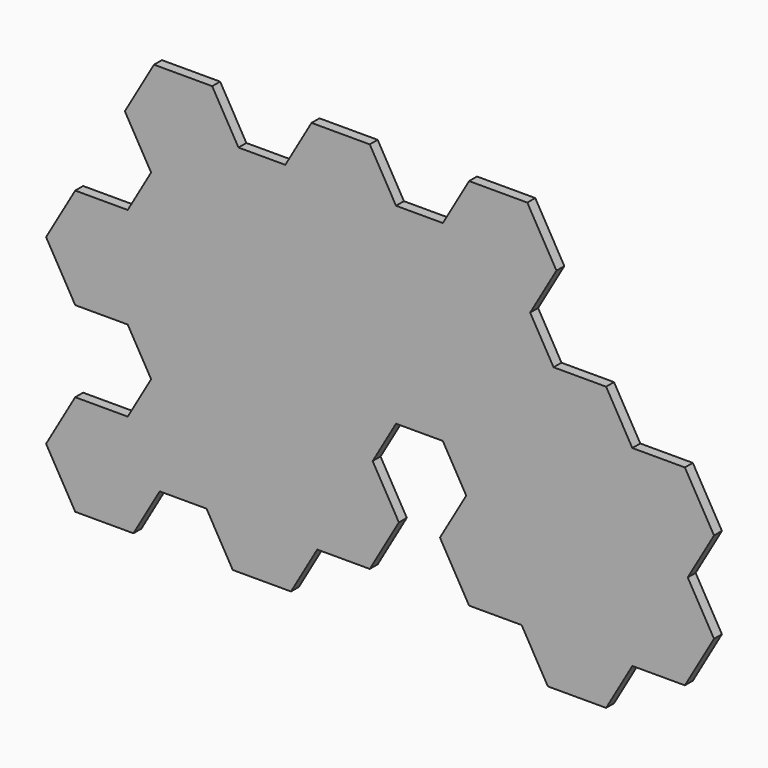
from build123d import *

# Parameters (mm, degrees)
F1_DEPTH = 6.35


with BuildPart() as f1:
    # F0 (on Front) → F1 (new body)
    with BuildSketch(Plane.XZ):
        Polygon((-140.814617, -143.280209), (-123.98153, -114.124446), (-90.315356, -114.124446), (-71.649181, -81.793684), (-88.482268, -52.637922), (-73.482268, -26.65716), (-43.482268, -26.65716), (-28.482268, -52.637922), (-45.315356, -81.793684), (-26.649181, -114.124446), (7.016993, -114.124446), (23.85008, -143.280209), (61.182428, -143.280209), (78.015515, -114.124446), (111.68169, -114.124446), (130.347864, -81.793684), (113.514777, -52.637922), (130.347864, -23.48216), (111.68169, 8.848602), (78.015515, 8.848602), (61.182428, 38.004364), (27.516254, 38.004364), (12.516254, 63.985126), (29.349341, 93.140888), (10.683167, 125.471651), (-26.649181, 125.471651), (-43.482268, 96.315888), (-73.482268, 96.315888), (-90.315356, 125.471651), (-127.647704, 125.471651), (-144.480791, 96.315888), (-174.480791, 96.315888), (-191.313878, 125.471651), (-228.646227, 125.471651), (-247.312401, 93.140888), (-230.479314, 63.985126), (-245.479314, 38.004364), (-279.145488, 38.004364), (-297.811662, 5.673602), (-279.145488, -26.65716), (-245.479314, -26.65716), (-230.479314, -52.637922), (-245.479314, -78.618684), (-279.145488, -78.618684), (-297.811662, -110.949446), (-279.145488, -143.280209), (-241.813139, -143.280209), (-224.980052, -114.124446), (-194.980052, -114.124446), (-178.146965, -143.280209), align=None)
        Polygon((-245.479314, -84.968684), (-230.479314, -110.949446), (-245.479314, -136.930209), (-275.479314, -136.930209), (-290.479314, -110.949446), (-275.479314, -84.968684), align=None, mode=Mode.SUBTRACT)
        Polygon((-194.980052, -55.812922), (-179.980052, -81.793684), (-194.980052, -107.774446), (-224.980052, -107.774446), (-239.980052, -81.793684), (-224.980052, -55.812922), align=None, mode=Mode.SUBTRACT)
        Polygon((-144.480791, -84.968684), (-129.480791, -110.949446), (-144.480791, -136.930209), (-174.480791, -136.930209), (-189.480791, -110.949446), (-174.480791, -84.968684), align=None, mode=Mode.SUBTRACT)
        Polygon((-93.98153, -55.812922), (-78.98153, -81.793684), (-93.98153, -107.774446), (-123.98153, -107.774446), (-138.98153, -81.793684), (-123.98153, -55.812922), align=None, mode=Mode.SUBTRACT)
        Polygon((-194.980052, 2.498602), (-179.980052, -23.48216), (-194.980052, -49.462922), (-224.980052, -49.462922), (-239.980052, -23.48216), (-224.980052, 2.498602), align=None, mode=Mode.SUBTRACT)
        Polygon((-144.480791, -26.65716), (-129.480791, -52.637922), (-144.480791, -78.618684), (-174.480791, -78.618684), (-189.480791, -52.637922), (-174.480791, -26.65716), align=None, mode=Mode.SUBTRACT)
        Polygon((-93.98153, 2.498602), (-78.98153, -23.48216), (-93.98153, -49.462922), (-123.98153, -49.462922), (-138.98153, -23.48216), (-123.98153, 2.498602), align=None, mode=Mode.SUBTRACT)
        Polygon((7.016993, -55.812922), (22.016993, -81.793684), (7.016993, -107.774446), (-22.983007, -107.774446), (-37.983007, -81.793684), (-22.983007, -55.812922), align=None, mode=Mode.SUBTRACT)
        Polygon((57.516254, -84.968684), (72.516254, -110.949446), (57.516254, -136.930209), (27.516254, -136.930209), (12.516254, -110.949446), (27.516254, -84.968684), align=None, mode=Mode.SUBTRACT)
        Polygon((108.015515, -55.812922), (123.015515, -81.793684), (108.015515, -107.774446), (78.015515, -107.774446), (63.015515, -81.793684), (78.015515, -55.812922), align=None, mode=Mode.SUBTRACT)
        Polygon((7.016993, 2.498602), (22.016993, -23.48216), (7.016993, -49.462922), (-22.983007, -49.462922), (-37.983007, -23.48216), (-22.983007, 2.498602), align=None, mode=Mode.SUBTRACT)
        Polygon((57.516254, -26.65716), (72.516254, -52.637922), (57.516254, -78.618684), (27.516254, -78.618684), (12.516254, -52.637922), (27.516254, -26.65716), align=None, mode=Mode.SUBTRACT)
        Polygon((108.015515, 2.498602), (123.015515, -23.48216), (108.015515, -49.462922), (78.015515, -49.462922), (63.015515, -23.48216), (78.015515, 2.498602), align=None, mode=Mode.SUBTRACT)
        Polygon((-245.479314, 31.654364), (-230.479314, 5.673602), (-245.479314, -20.30716), (-275.479314, -20.30716), (-290.479314, 5.673602), (-275.479314, 31.654364), align=None, mode=Mode.SUBTRACT)
        Polygon((-194.980052, 60.810126), (-179.980052, 34.829364), (-194.980052, 8.848602), (-224.980052, 8.848602), (-239.980052, 34.829364), (-224.980052, 60.810126), align=None, mode=Mode.SUBTRACT)
        Polygon((-144.480791, 31.654364), (-129.480791, 5.673602), (-144.480791, -20.30716), (-174.480791, -20.30716), (-189.480791, 5.673602), (-174.480791, 31.654364), align=None, mode=Mode.SUBTRACT)
        Polygon((-93.98153, 60.810126), (-78.98153, 34.829364), (-93.98153, 8.848602), (-123.98153, 8.848602), (-138.98153, 34.829364), (-123.98153, 60.810126), align=None, mode=Mode.SUBTRACT)
        Polygon((-194.980052, 119.121651), (-179.980052, 93.140888), (-194.980052, 67.160126), (-224.980052, 67.160126), (-239.980052, 93.140888), (-224.980052, 119.121651), align=None, mode=Mode.SUBTRACT)
        Polygon((-144.480791, 89.965888), (-129.480791, 63.985126), (-144.480791, 38.004364), (-174.480791, 38.004364), (-189.480791, 63.985126), (-174.480791, 89.965888), align=None, mode=Mode.SUBTRACT)
        Polygon((-93.98153, 119.121651), (-78.98153, 93.140888), (-93.98153, 67.160126), (-123.98153, 67.160126), (-138.98153, 93.140888), (-123.98153, 119.121651), align=None, mode=Mode.SUBTRACT)
        Polygon((-43.482268, 31.654364), (-28.482268, 5.673602), (-43.482268, -20.30716), (-73.482268, -20.30716), (-88.482268, 5.673602), (-73.482268, 31.654364), align=None, mode=Mode.SUBTRACT)
        Polygon((7.016993, 60.810126), (22.016993, 34.829364), (7.016993, 8.848602), (-22.983007, 8.848602), (-37.983007, 34.829364), (-22.983007, 60.810126), align=None, mode=Mode.SUBTRACT)
        Polygon((57.516254, 31.654364), (72.516254, 5.673602), (57.516254, -20.30716), (27.516254, -20.30716), (12.516254, 5.673602), (27.516254, 31.654364), align=None, mode=Mode.SUBTRACT)
        Polygon((-43.482268, 89.965888), (-28.482268, 63.985126), (-43.482268, 38.004364), (-73.482268, 38.004364), (-88.482268, 63.985126), (-73.482268, 89.965888), align=None, mode=Mode.SUBTRACT)
        Polygon((7.016993, 119.121651), (22.016993, 93.140888), (7.016993, 67.160126), (-22.983007, 67.160126), (-37.983007, 93.140888), (-22.983007, 119.121651), align=None, mode=Mode.SUBTRACT)
        Polygon((-194.980052, 67.160126), (-179.980052, 93.140888), (-194.980052, 119.121651), (-224.980052, 119.121651), (-239.980052, 93.140888), (-224.980052, 67.160126), align=None)
        Polygon((-194.980052, 8.848602), (-179.980052, 34.829364), (-194.980052, 60.810126), (-224.980052, 60.810126), (-239.980052, 34.829364), (-224.980052, 8.848602), align=None)
        Polygon((-144.480791, 38.004364), (-129.480791, 63.985126), (-144.480791, 89.965888), (-174.480791, 89.965888), (-189.480791, 63.985126), (-174.480791, 38.004364), align=None)
        Polygon((-93.98153, 67.160126), (-78.98153, 93.140888), (-93.98153, 119.121651), (-123.98153, 119.121651), (-138.98153, 93.140888), (-123.98153, 67.160126), align=None)
        Polygon((-93.98153, 8.848602), (-78.98153, 34.829364), (-93.98153, 60.810126), (-123.98153, 60.810126), (-138.98153, 34.829364), (-123.98153, 8.848602), align=None)
        Polygon((-144.480791, -20.30716), (-129.480791, 5.673602), (-144.480791, 31.654364), (-174.480791, 31.654364), (-189.480791, 5.673602), (-174.480791, -20.30716), align=None)
        Polygon((-194.980052, -49.462922), (-179.980052, -23.48216), (-194.980052, 2.498602), (-224.980052, 2.498602), (-239.980052, -23.48216), (-224.980052, -49.462922), align=None)
        Polygon((-194.980052, -107.774446), (-179.980052, -81.793684), (-194.980052, -55.812922), (-224.980052, -55.812922), (-239.980052, -81.793684), (-224.980052, -107.774446), align=None)
        Polygon((-144.480791, -136.930209), (-129.480791, -110.949446), (-144.480791, -84.968684), (-174.480791, -84.968684), (-189.480791, -110.949446), (-174.480791, -136.930209), align=None)
        Polygon((-144.480791, -78.618684), (-129.480791, -52.637922), (-144.480791, -26.65716), (-174.480791, -26.65716), (-189.480791, -52.637922), (-174.480791, -78.618684), align=None)
        Polygon((-93.98153, -107.774446), (-78.98153, -81.793684), (-93.98153, -55.812922), (-123.98153, -55.812922), (-138.98153, -81.793684), (-123.98153, -107.774446), align=None)
        Polygon((-43.482268, -20.30716), (-28.482268, 5.673602), (-43.482268, 31.654364), (-73.482268, 31.654364), (-88.482268, 5.673602), (-73.482268, -20.30716), align=None)
        Polygon((7.016993, 8.848602), (22.016993, 34.829364), (7.016993, 60.810126), (-22.983007, 60.810126), (-37.983007, 34.829364), (-22.983007, 8.848602), align=None)
        Polygon((7.016993, 67.160126), (22.016993, 93.140888), (7.016993, 119.121651), (-22.983007, 119.121651), (-37.983007, 93.140888), (-22.983007, 67.160126), align=None)
        Polygon((57.516254, -20.30716), (72.516254, 5.673602), (57.516254, 31.654364), (27.516254, 31.654364), (12.516254, 5.673602), (27.516254, -20.30716), align=None)
        Polygon((7.016993, -107.774446), (22.016993, -81.793684), (7.016993, -55.812922), (-22.983007, -55.812922), (-37.983007, -81.793684), (-22.983007, -107.774446), align=None)
        Polygon((57.516254, -78.618684), (72.516254, -52.637922), (57.516254, -26.65716), (27.516254, -26.65716), (12.516254, -52.637922), (27.516254, -78.618684), align=None)
        Polygon((108.015515, -49.462922), (123.015515, -23.48216), (108.015515, 2.498602), (78.015515, 2.498602), (63.015515, -23.48216), (78.015515, -49.462922), align=None)
        Polygon((108.015515, -107.774446), (123.015515, -81.793684), (108.015515, -55.812922), (78.015515, -55.812922), (63.015515, -81.793684), (78.015515, -107.774446), align=None)
        Polygon((57.516254, -136.930209), (72.516254, -110.949446), (57.516254, -84.968684), (27.516254, -84.968684), (12.516254, -110.949446), (27.516254, -136.930209), align=None)
        Polygon((-245.479314, -20.30716), (-230.479314, 5.673602), (-245.479314, 31.654364), (-275.479314, 31.654364), (-290.479314, 5.673602), (-275.479314, -20.30716), align=None)
        Polygon((-93.98153, -49.462922), (-78.98153, -23.48216), (-93.98153, 2.498602), (-123.98153, 2.498602), (-138.98153, -23.48216), (-123.98153, -49.462922), align=None)
        Polygon((-43.482268, 38.004364), (-28.482268, 63.985126), (-43.482268, 89.965888), (-73.482268, 89.965888), (-88.482268, 63.985126), (-73.482268, 38.004364), align=None)
        Polygon((7.016993, -49.462922), (22.016993, -23.48216), (7.016993, 2.498602), (-22.983007, 2.498602), (-37.983007, -23.48216), (-22.983007, -49.462922), align=None)
        Polygon((-245.479314, -136.930209), (-230.479314, -110.949446), (-245.479314, -84.968684), (-275.479314, -84.968684), (-290.479314, -110.949446), (-275.479314, -136.930209), align=None)
    extrude(amount=F1_DEPTH)


solid = f1.part
